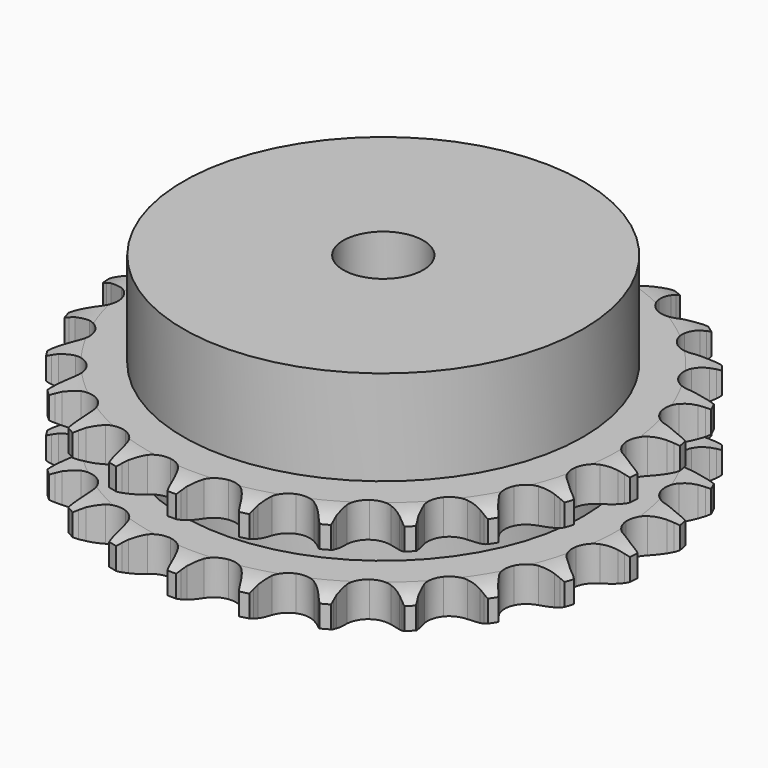
from build123d import *

# Parameters (mm, degrees)
PAD_DEPTH         = 21
SKETCH001_R       = 40
PAD001_DEPTH      = 40
SKETCH002_R       = 8
POCKET_DEPTH      = 0.001
POCKET_DEPTH_BACK = 40.001


with BuildPart() as part:
    # Sprocket → Pad (new body)
    with BuildSketch(Plane.XY):
        with BuildLine():
            ThreePointArc((-6.825515, 54.029512), (-5.97163, 52.958476), (-5.343791, 51.74108))
            Line((-5.343791, 51.74108), (-4.930087, 50.698311))
            ThreePointArc((-4.930087, 50.698311), (-4.270135, 49.31965), (-3.427403, 48.044487))
            ThreePointArc((-3.427403, 48.044487), (-1.911575, 46.797155), (0, 46.350559))
            ThreePointArc((0, 46.350559), (1.911575, 46.797155), (3.427403, 48.044487))
            ThreePointArc((3.427403, 48.044487), (4.270135, 49.31965), (4.930087, 50.698311))
            Line((4.930087, 50.698311), (5.343791, 51.74108))
            ThreePointArc((5.343791, 51.74108), (5.97163, 52.958476), (6.825515, 54.029512))
            ThreePointArc((6.825515, 54.029512), (7.386217, 52.779772), (7.691577, 51.444485))
            Line((7.691577, 51.444485), (7.832958, 50.331593))
            ThreePointArc((7.832958, 50.331593), (8.129317, 48.832122), (8.628454, 47.387441))
            ThreePointArc((8.628454, 47.387441), (9.78646, 45.802326), (11.526915, 44.894371))
            ThreePointArc((11.526915, 44.894371), (13.489499, 44.851547), (15.267902, 45.682721))
            Line((15.267902, 45.682721), (17.383356, 47.879467))
            ThreePointArc((17.383356, 47.879467), (17.701929, 48.341356), (18.043389, 48.786592))
            ThreePointArc((18.043389, 48.786592), (18.954258, 49.809604), (20.047672, 50.634639))
            ThreePointArc((20.047672, 50.634639), (20.279961, 49.284721), (20.243656, 47.915444))
            Line((20.243656, 47.915444), (20.103829, 46.802356))
            ThreePointArc((20.103829, 46.802356), (20.017975, 45.276292), (20.142152, 43.752869))
            ThreePointArc((20.142152, 43.752869), (20.869575, 41.929568), (22.329552, 40.617304))
            ThreePointArc((22.329552, 40.617304), (24.219828, 40.087751), (26.149064, 40.450541))
            Line((26.149064, 40.450541), (28.744366, 42.052181))
            ThreePointArc((28.744366, 42.052181), (29.167796, 42.420333), (29.609255, 42.766663))
            ThreePointArc((29.609255, 42.766663), (30.74592, 43.531011), (32.01016, 44.058206))
            ThreePointArc((32.01016, 44.058206), (31.89944, 42.69293), (31.52375, 41.3757))
            Line((31.52375, 41.3757), (31.111503, 40.332355))
            ThreePointArc((31.111503, 40.332355), (30.648829, 38.875587), (30.390245, 37.369142))
            ThreePointArc((30.390245, 37.369142), (30.641379, 35.422221), (31.729141, 33.788103))
            ThreePointArc((31.729141, 33.788103), (33.428336, 32.805095), (35.387183, 32.676705))
            Line((35.387183, 32.676705), (38.299261, 33.582601))
            ThreePointArc((38.299261, 33.582601), (38.800944, 33.833884), (39.314662, 34.059547))
            ThreePointArc((39.314662, 34.059547), (40.605703, 34.517205), (41.961332, 34.713433))
            ThreePointArc((41.961332, 34.713433), (41.514561, 33.418585), (40.823092, 32.236169))
            Line((40.823092, 32.236169), (40.164327, 31.328124))
            ThreePointArc((40.164327, 31.328124), (39.353905, 30.032185), (38.728808, 28.637375))
            ThreePointArc((38.728808, 28.637375), (38.487872, 26.689166), (39.135071, 24.835871))
            ThreePointArc((39.135071, 24.835871), (40.536418, 23.461173), (42.401796, 22.849672))
            Line((42.401796, 22.849672), (45.447672, 23.002903))
            ThreePointArc((45.447672, 23.002903), (45.996086, 23.121528), (46.549785, 23.212345))
            ThreePointArc((46.549785, 23.212345), (47.91408, 23.334556), (49.27592, 23.187488))
            ThreePointArc((49.27592, 23.187488), (48.521168, 22.044427), (47.557369, 21.07112))
            Line((47.557369, 21.07112), (46.693478, 20.355431))
            ThreePointArc((46.693478, 20.355431), (45.586231, 19.30175), (44.633897, 18.106216))
            ThreePointArc((44.633897, 18.106216), (43.91603, 16.279132), (44.082001, 14.32311))
            ThreePointArc((44.082001, 14.32311), (45.097449, 12.6431), (46.752148, 11.586909))
            Line((46.752148, 11.586909), (49.740439, 10.977848))
            ThreePointArc((49.740439, 10.977848), (50.301125, 10.956361), (50.860013, 10.906626))
            ThreePointArc((50.860013, 10.906626), (52.211839, 10.685711), (53.49432, 10.204587))
            ThreePointArc((53.49432, 10.204587), (52.479013, 9.285137), (51.303441, 8.582095))
            Line((51.303441, 8.582095), (50.288706, 8.103732))
            ThreePointArc((50.288706, 8.103732), (48.954205, 7.358516), (47.734474, 6.437378))
            ThreePointArc((47.734474, 6.437378), (46.584783, 4.846221), (46.259097, 2.910376))
            ThreePointArc((46.259097, 2.910376), (46.824841, 1.030614), (48.16489, -0.403901))
            Line((48.16489, -0.403901), (50.907832, -1.736985))
            ThreePointArc((50.907832, -1.736985), (51.445559, -1.897234), (51.97452, -2.084397))
            ThreePointArc((51.97452, -2.084397), (53.228936, -2.634557), (54.351475, -3.419505))
            ThreePointArc((54.351475, -3.419505), (53.139408, -4.057572), (51.825929, -4.446174))
            Line((51.825929, -4.446174), (50.72411, -4.657154))
            ThreePointArc((50.72411, -4.657154), (49.246207, -5.047081), (47.835718, -5.635945))
            ThreePointArc((47.835718, -5.635945), (46.326443, -6.891196), (45.529563, -8.685229))
            ThreePointArc((45.529563, -8.685229), (45.610056, -10.646628), (46.551256, -12.369333))
            Line((46.551256, -12.369333), (48.876498, -14.342678))
            ThreePointArc((48.876498, -14.342678), (49.357479, -14.631619), (49.823276, -14.944449))
            ThreePointArc((49.823276, -14.944449), (50.901464, -15.789285), (51.793527, -16.828737))
            ThreePointArc((51.793527, -16.828737), (50.460858, -17.14533), (49.092004, -17.195074))
            Line((49.092004, -17.195074), (47.972332, -17.125415))
            ThreePointArc((47.972332, -17.125415), (46.443889, -17.135552), (44.931268, -17.355141))
            ThreePointArc((44.931268, -17.355141), (43.157241, -18.195615), (41.93924, -19.735108))
            ThreePointArc((41.93924, -19.735108), (41.529423, -21.654905), (42.012634, -23.557554))
            Line((42.012634, -23.557554), (43.774074, -26.047167))
            ThreePointArc((43.774074, -26.047167), (44.168087, -26.446646), (44.541453, -26.865487))
            ThreePointArc((44.541453, -26.865487), (45.375665, -27.951915), (45.981201, -29.180558))
            ThreePointArc((45.981201, -29.180558), (44.611668, -29.155783), (43.273447, -28.863544))
            Line((43.273447, -28.863544), (42.206276, -28.517622))
            ThreePointArc((42.206276, -28.517622), (40.72333, -28.147333), (39.203622, -27.983849))
            ThreePointArc((39.203622, -27.983849), (37.276312, -28.356735), (35.713719, -29.544958))
            ThreePointArc((35.713719, -29.544958), (34.839344, -31.302524), (34.834205, -33.265568))
            Line((34.834205, -33.265568), (35.921164, -36.115017))
            ThreePointArc((35.921164, -36.115017), (36.203452, -36.599932), (36.460927, -37.098467))
            ThreePointArc((36.460927, -37.098467), (36.998747, -38.358223), (37.279708, -39.698857))
            ThreePointArc((37.279708, -39.698857), (35.959362, -39.334271), (34.735861, -38.718411))
            Line((34.735861, -38.718411), (33.788244, -38.117963))
            ThreePointArc((33.788244, -38.117963), (32.443975, -37.390513), (31.012668, -36.85423))
            ThreePointArc((31.012668, -36.85423), (29.053175, -36.736098), (27.244175, -37.49839))
            ThreePointArc((27.244175, -37.49839), (25.960181, -38.98329), (25.467014, -40.883383))
            Line((25.467014, -40.883383), (25.811195, -43.913627))
            ThreePointArc((25.811195, -43.913627), (25.964021, -44.453511), (26.089426, -45.000414))
            ThreePointArc((26.089426, -45.000414), (26.297061, -46.354343), (26.235793, -47.72273))
            ThreePointArc((26.235793, -47.72273), (25.047597, -47.041242), (24.015693, -46.140459))
            Line((24.015693, -46.140459), (23.247172, -45.323211))
            ThreePointArc((23.247172, -45.323211), (22.126046, -44.28431), (20.873074, -43.408923))
            ThreePointArc((20.873074, -43.408923), (19.00452, -42.807197), (17.062779, -43.09566))
            ThreePointArc((17.062779, -43.09566), (15.449844, -44.214592), (14.499637, -45.932345))
            Line((14.499637, -45.932345), (14.079414, -48.952983))
            ThreePointArc((14.079414, -48.952983), (14.093175, -49.513911), (14.078631, -50.07482))
            ThreePointArc((14.078631, -50.07482), (13.943034, -51.437849), (13.543387, -52.748009))
            ThreePointArc((13.543387, -52.748009), (12.561999, -51.792439), (11.78653, -50.663331))
            Line((11.78653, -50.663331), (11.245395, -49.680636))
            ThreePointArc((11.245395, -49.680636), (10.417855, -48.39556), (9.421947, -47.236074))
            ThreePointArc((9.421947, -47.236074), (7.761741, -46.188562), (5.809265, -45.985071))
            ThreePointArc((5.809265, -45.985071), (3.968737, -46.66773), (2.621194, -48.095209))
            Line((2.621194, -48.095209), (1.462971, -50.916443))
            ThreePointArc((1.462971, -50.916443), (1.336803, -51.463171), (1.183223, -52.00284))
            ThreePointArc((1.183223, -52.00284), (0.712915, -53.289326), (0, -54.458937))
            ThreePointArc((0, -54.458937), (-0.712915, -53.289326), (-1.183223, -52.00284))
            Line((-1.183223, -52.00284), (-1.462971, -50.916443))
            ThreePointArc((-1.462971, -50.916443), (-1.944927, -49.46594), (-2.621194, -48.095209))
            ThreePointArc((-2.621194, -48.095209), (-3.968737, -46.66773), (-5.809265, -45.985071))
            ThreePointArc((-5.809265, -45.985071), (-7.761741, -46.188562), (-9.421947, -47.236074))
            Line((-9.421947, -47.236074), (-11.245395, -49.680636))
            ThreePointArc((-11.245395, -49.680636), (-11.503565, -50.17881), (-11.78653, -50.663331))
            ThreePointArc((-11.78653, -50.663331), (-12.561999, -51.792439), (-13.543387, -52.748009))
            ThreePointArc((-13.543387, -52.748009), (-13.943034, -51.437849), (-14.078631, -50.07482))
            Line((-14.078631, -50.07482), (-14.079414, -48.952983))
            ThreePointArc((-14.079414, -48.952983), (-14.185503, -47.428193), (-14.499637, -45.932345))
            ThreePointArc((-14.499637, -45.932345), (-15.449844, -44.214592), (-17.062779, -43.09566))
            ThreePointArc((-17.062779, -43.09566), (-19.00452, -42.807197), (-20.873074, -43.408923))
            Line((-20.873074, -43.408923), (-23.247172, -45.323211))
            ThreePointArc((-23.247172, -45.323211), (-23.621122, -45.74153), (-24.015693, -46.140459))
            ThreePointArc((-24.015693, -46.140459), (-25.047597, -47.041242), (-26.235793, -47.72273))
            ThreePointArc((-26.235793, -47.72273), (-26.297061, -46.354343), (-26.089426, -45.000414))
            Line((-26.089426, -45.000414), (-25.811195, -43.913627))
            ThreePointArc((-25.811195, -43.913627), (-25.534751, -42.410358), (-25.467014, -40.883383))
            ThreePointArc((-25.467014, -40.883383), (-25.960181, -38.98329), (-27.244175, -37.49839))
            ThreePointArc((-27.244175, -37.49839), (-29.053175, -36.736098), (-31.012668, -36.85423))
            Line((-31.012668, -36.85423), (-33.788244, -38.117963))
            ThreePointArc((-33.788244, -38.117963), (-34.254477, -38.430142), (-34.735861, -38.718411))
            ThreePointArc((-34.735861, -38.718411), (-35.959362, -39.334271), (-37.279708, -39.698857))
            ThreePointArc((-37.279708, -39.698857), (-36.998747, -38.358223), (-36.460927, -37.098467))
            Line((-36.460927, -37.098467), (-35.921164, -36.115017))
            ThreePointArc((-35.921164, -36.115017), (-35.279557, -34.727724), (-34.834205, -33.265568))
            ThreePointArc((-34.834205, -33.265568), (-34.839344, -31.302524), (-35.713719, -29.544958))
            ThreePointArc((-35.713719, -29.544958), (-37.276312, -28.356735), (-39.203622, -27.983849))
            Line((-39.203622, -27.983849), (-42.206276, -28.517622))
            ThreePointArc((-42.206276, -28.517622), (-42.735497, -28.704046), (-43.273447, -28.863544))
            ThreePointArc((-43.273447, -28.863544), (-44.611668, -29.155783), (-45.981201, -29.180558))
            ThreePointArc((-45.981201, -29.180558), (-45.375665, -27.951915), (-44.541453, -26.865487))
            Line((-44.541453, -26.865487), (-43.774074, -26.047167))
            ThreePointArc((-43.774074, -26.047167), (-42.807619, -24.86302), (-42.012634, -23.557554))
            ThreePointArc((-42.012634, -23.557554), (-41.529423, -21.654905), (-41.93924, -19.735108))
            ThreePointArc((-41.93924, -19.735108), (-43.157241, -18.195615), (-44.931268, -17.355141))
            Line((-44.931268, -17.355141), (-47.972332, -17.125415))
            ThreePointArc((-47.972332, -17.125415), (-48.531289, -17.17437), (-49.092004, -17.195074))
            ThreePointArc((-49.092004, -17.195074), (-50.460858, -17.14533), (-51.793527, -16.828737))
            ThreePointArc((-51.793527, -16.828737), (-50.901464, -15.789285), (-49.823276, -14.944449))
            Line((-49.823276, -14.944449), (-48.876498, -14.342678))
            ThreePointArc((-48.876498, -14.342678), (-47.64592, -13.43608), (-46.551256, -12.369333))
            ThreePointArc((-46.551256, -12.369333), (-45.610056, -10.646628), (-45.529563, -8.685229))
            ThreePointArc((-45.529563, -8.685229), (-46.326443, -6.891196), (-47.835718, -5.635945))
            Line((-47.835718, -5.635945), (-50.72411, -4.657154))
            ThreePointArc((-50.72411, -4.657154), (-51.277682, -4.565565), (-51.825929, -4.446174))
            ThreePointArc((-51.825929, -4.446174), (-53.139408, -4.057572), (-54.351475, -3.419505))
            ThreePointArc((-54.351475, -3.419505), (-53.228936, -2.634557), (-51.97452, -2.084397))
            Line((-51.97452, -2.084397), (-50.907832, -1.736985))
            ThreePointArc((-50.907832, -1.736985), (-49.490453, -1.164903), (-48.16489, -0.403901))
            ThreePointArc((-48.16489, -0.403901), (-46.824841, 1.030614), (-46.259097, 2.910376))
            ThreePointArc((-46.259097, 2.910376), (-46.584783, 4.846221), (-47.734474, 6.437378))
            Line((-47.734474, 6.437378), (-50.288706, 8.103732))
            ThreePointArc((-50.288706, 8.103732), (-50.802109, 8.330112), (-51.303441, 8.582095))
            ThreePointArc((-51.303441, 8.582095), (-52.479013, 9.285137), (-53.49432, 10.204587))
            ThreePointArc((-53.49432, 10.204587), (-52.211839, 10.685711), (-50.860013, 10.906626))
            Line((-50.860013, 10.906626), (-49.740439, 10.977848))
            ThreePointArc((-49.740439, 10.977848), (-48.225319, 11.17947), (-46.752148, 11.586909))
            ThreePointArc((-46.752148, 11.586909), (-45.097449, 12.6431), (-44.082001, 14.32311))
            ThreePointArc((-44.082001, 14.32311), (-43.91603, 16.279132), (-44.633897, 18.106216))
            Line((-44.633897, 18.106216), (-46.693478, 20.355431))
            ThreePointArc((-46.693478, 20.355431), (-47.134452, 20.702377), (-47.557369, 21.07112))
            ThreePointArc((-47.557369, 21.07112), (-48.521168, 22.044427), (-49.27592, 23.187488))
            ThreePointArc((-49.27592, 23.187488), (-47.91408, 23.334556), (-46.549785, 23.212345))
            Line((-46.549785, 23.212345), (-45.447672, 23.002903))
            ThreePointArc((-45.447672, 23.002903), (-43.930011, 22.821396), (-42.401796, 22.849672))
            ThreePointArc((-42.401796, 22.849672), (-40.536418, 23.461173), (-39.135071, 24.835871))
            ThreePointArc((-39.135071, 24.835871), (-38.487872, 26.689166), (-38.728808, 28.637375))
            Line((-38.728808, 28.637375), (-40.164327, 31.328124))
            ThreePointArc((-40.164327, 31.328124), (-40.505165, 31.773835), (-40.823092, 32.236169))
            ThreePointArc((-40.823092, 32.236169), (-41.514561, 33.418585), (-41.961332, 34.713433))
            ThreePointArc((-41.961332, 34.713433), (-40.605703, 34.517205), (-39.314662, 34.059547))
            Line((-39.314662, 34.059547), (-38.299261, 33.582601))
            ThreePointArc((-38.299261, 33.582601), (-36.874419, 33.029369), (-35.387183, 32.676705))
            ThreePointArc((-35.387183, 32.676705), (-33.428336, 32.805095), (-31.729141, 33.788103))
            ThreePointArc((-31.729141, 33.788103), (-30.641379, 35.422221), (-30.390245, 37.369142))
            Line((-30.390245, 37.369142), (-31.111503, 40.332355))
            ThreePointArc((-31.111503, 40.332355), (-31.33079, 40.848827), (-31.52375, 41.3757))
            ThreePointArc((-31.52375, 41.3757), (-31.89944, 42.69293), (-32.01016, 44.058206))
            ThreePointArc((-32.01016, 44.058206), (-30.74592, 43.531011), (-29.609255, 42.766663))
            Line((-29.609255, 42.766663), (-28.744366, 42.052181))
            ThreePointArc((-28.744366, 42.052181), (-27.501871, 41.161986), (-26.149064, 40.450541))
            ThreePointArc((-26.149064, 40.450541), (-24.219828, 40.087751), (-22.329552, 40.617304))
            ThreePointArc((-22.329552, 40.617304), (-20.869575, 41.929568), (-20.142152, 43.752869))
            Line((-20.142152, 43.752869), (-20.103829, 46.802356))
            ThreePointArc((-20.103829, 46.802356), (-20.187785, 47.357136), (-20.243656, 47.915444))
            ThreePointArc((-20.243656, 47.915444), (-20.279961, 49.284721), (-20.047672, 50.634639))
            ThreePointArc((-20.047672, 50.634639), (-18.954258, 49.809604), (-18.043389, 48.786592))
            Line((-18.043389, 48.786592), (-17.383356, 47.879467))
            ThreePointArc((-17.383356, 47.879467), (-16.401279, 46.708243), (-15.267902, 45.682721))
            ThreePointArc((-15.267902, 45.682721), (-13.489499, 44.851547), (-11.526915, 44.894371))
            ThreePointArc((-11.526915, 44.894371), (-9.78646, 45.802326), (-8.628454, 47.387441))
            Line((-8.628454, 47.387441), (-7.832958, 50.331593))
            ThreePointArc((-7.832958, 50.331593), (-7.776308, 50.889823), (-7.691577, 51.444485))
            ThreePointArc((-7.691577, 51.444485), (-7.386217, 52.779772), (-6.825515, 54.029512))
        make_face()
    extrude(amount=PAD_DEPTH)

    # Sketch → Groove (revolve, cut)
    with BuildSketch(Plane.XZ):
        with BuildLine():
            ThreePointArc((47.233431, 0), (50.14032, 0.329167), (52.9, 1.3))
            Line((52.9, 1.3), (52.9, 5.7))
            ThreePointArc((52.9, 5.7), (50.14032, 6.670833), (47.233431, 7))
            Line((40, 7), (47.233431, 7))
            Line((40, 14), (40, 7))
            Line((47.233431, 14), (40, 14))
            ThreePointArc((47.233431, 14), (50.14032, 14.329167), (52.9, 15.3))
            Line((52.9, 15.3), (52.9, 19.7))
            ThreePointArc((52.9, 19.7), (50.14032, 20.670833), (47.233431, 21))
            Line((47.233431, 21), (57.233431, 21))
            Line((57.233431, 21), (57.233431, 0))
            Line((47.233431, 0), (57.233431, 0))
        make_face()
    revolve(axis=Axis((0, 0, 0), (0, 0, 1)), mode=Mode.SUBTRACT)

    # Sketch001 → Pad001 (join)
    with BuildSketch(Plane.XY):
        Circle(SKETCH001_R)
    extrude(amount=PAD001_DEPTH)

    # Sketch002 → Pocket (cut, two sides)
    with BuildSketch(Plane.XY) as pocket_sk:
        Circle(SKETCH002_R)
    extrude(amount=-POCKET_DEPTH, mode=Mode.SUBTRACT)
    extrude(pocket_sk.sketch, amount=POCKET_DEPTH_BACK, mode=Mode.SUBTRACT)


solid = part.part
